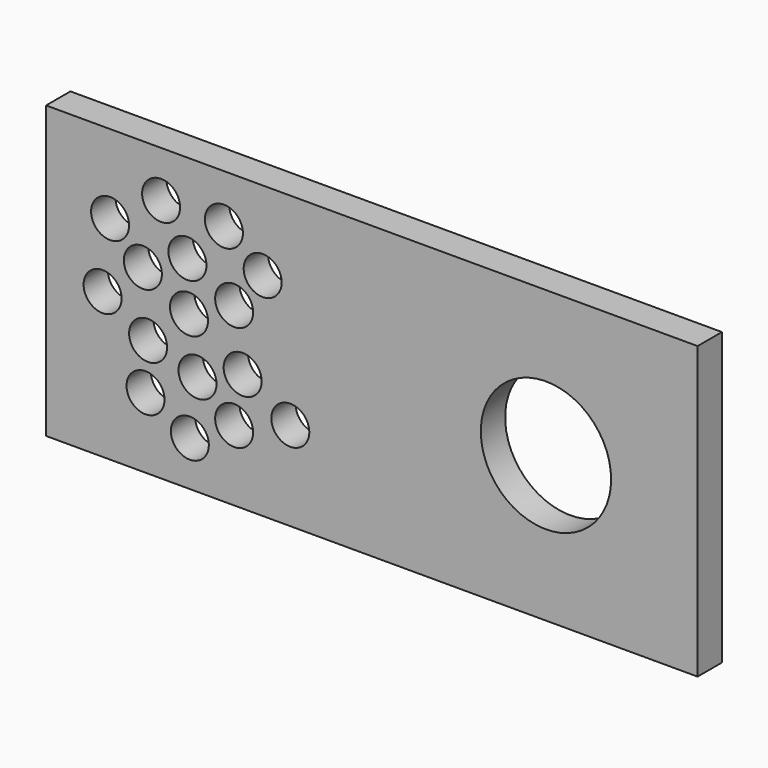
from build123d import *

# Parameters (mm, degrees)
F0_W          = 60
F0_H          = 26.8
F1_DEPTH      = 2.8
F2_R          = 1.75
F2_R_2        = 6
F3_DEPTH      = 25
F3_DEPTH_BACK = 25


with BuildPart() as f1:
    # F0 (on Front) → F1 (new body)
    with BuildSketch(Plane.XZ):
        Rectangle(F0_W, F0_H)
    extrude(amount=F1_DEPTH)

    # F2 (on Front) → F3 (cut, two sides)
    with BuildSketch(Plane.XZ) as f3_sk:
        with Locations((-19.407583, 9.143958)):
            Circle(F2_R)
        with Locations((-21.087086, 3.172394)):
            Circle(F2_R)
        with Locations((-16.981635, 5.225119)):
            Circle(F2_R)
        with Locations((-16.839717, 0.773296)):
            Circle(F2_R)
        with Locations((-20.605817, -2.600502)):
            Circle(F2_R)
        with Locations((-16.055113, -4.09125)):
            Circle(F2_R)
        with Locations((-13.622839, 8.93318)):
            Circle(F2_R)
        with Locations((-12.681315, 2.813267)):
            Circle(F2_R)
        with Locations((-11.89671, -2.522042)):
            Circle(F2_R)
        with Locations((-12.681315, -6.915826)):
            Circle(F2_R)
        with Locations((-20.841198, -6.915826)):
            Circle(F2_R)
        with Locations((-16.761256, -9.269638)):
            Circle(F2_R)
        with Locations((16.035197, 0)):
            Circle(F2_R_2)
        with Locations((-10.051827, 6.095069)):
            Circle(F2_R)
        with Locations((-24.795463, 0)):
            Circle(F2_R)
        with Locations((-24.105322, 6.147532)):
            Circle(F2_R)
        with Locations((-7.508276, -5.214532)):
            Circle(F2_R)
    extrude(amount=F3_DEPTH, mode=Mode.SUBTRACT)
    extrude(f3_sk.sketch, amount=-F3_DEPTH_BACK, mode=Mode.SUBTRACT)


solid = f1.part
